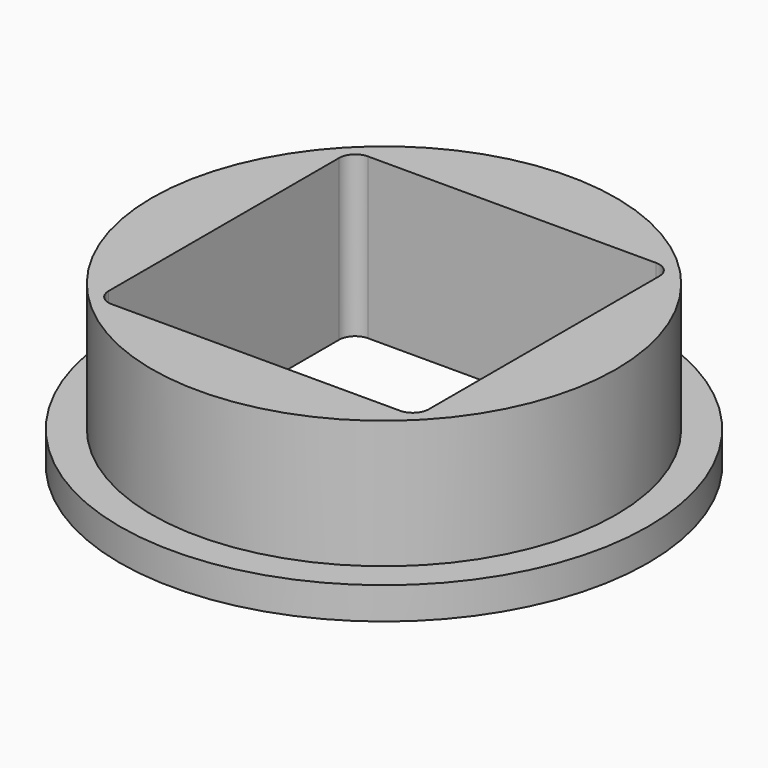
from build123d import *

# Parameters (mm, degrees)
F0_R     = 72.5
F1_DEPTH = 50
F0_R_2   = 82.5
F2_DEPTH = 10


with BuildPart() as f1:
    # F0 (on Top) → F1 (new body)
    with BuildSketch(Plane.XY):
        Circle(F0_R)
        with BuildLine():
            ThreePointArc((50, -45), (48.535534, -48.535534), (45, -50))
            Line((45, -50), (-45, -50))
            ThreePointArc((-45, -50), (-48.535534, -48.535534), (-50, -45))
            Line((-50, -45), (-50, 45))
            ThreePointArc((-50, 45), (-48.535534, 48.535534), (-45, 50))
            Line((-45, 50), (45, 50))
            ThreePointArc((45, 50), (48.535534, 48.535534), (50, 45))
            Line((50, 45), (50, -45))
        make_face(mode=Mode.SUBTRACT)
    extrude(amount=F1_DEPTH)

    # F0 (on Top) → F2 (join)
    with BuildSketch(Plane.XY):
        Circle(F0_R_2)
        Circle(F0_R, mode=Mode.SUBTRACT)
    extrude(amount=F2_DEPTH)


solid = f1.part
